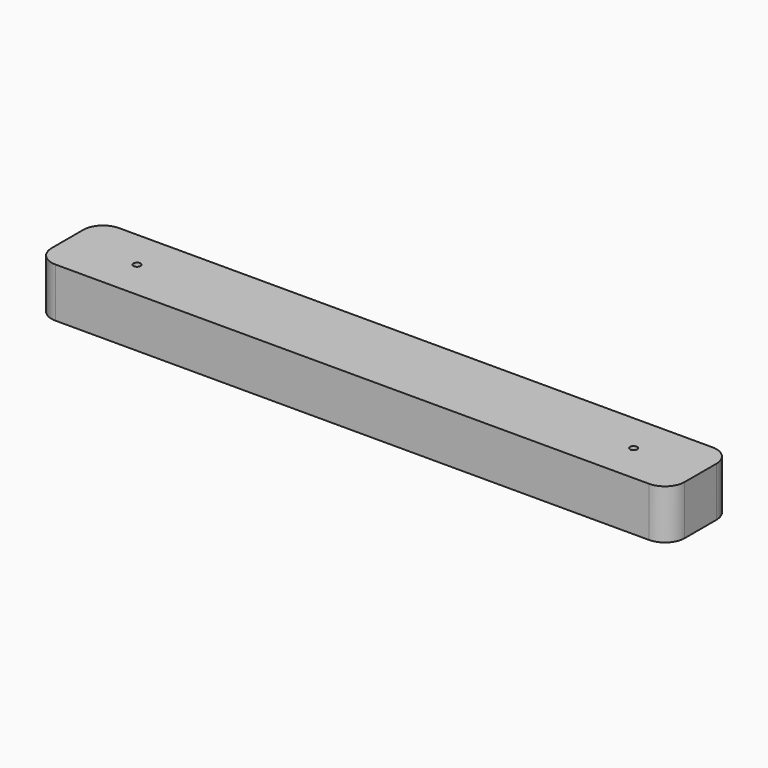
from build123d import *

# Parameters (mm, degrees)
F1_DEPTH = 12.5
F2_R     = 1.8
F3_DEPTH = 26
F4_R     = 1.8
F5_DEPTH = 26


with BuildPart() as f1:
    # F0 (on Top) → F1 (new body, symmetric)
    with BuildSketch(Plane.XY):
        with BuildLine():
            ThreePointArc((160, 10), (157.071068, 17.071068), (150, 20))
            Line((150, 20), (-150, 20))
            ThreePointArc((-150, 20), (-157.071068, 17.071068), (-160, 10))
            Line((-160, 10), (-160, -10))
            ThreePointArc((-160, -10), (-157.071068, -17.071068), (-150, -20))
            Line((-150, -20), (150, -20))
            ThreePointArc((150, -20), (157.071068, -17.071068), (160, -10))
            Line((160, -10), (160, 10))
        make_face()
    extrude(amount=F1_DEPTH, both=True)

    # F2 (on face) → F3 (cut)
    with BuildSketch(Plane.XY.offset(12.5)):
        with Locations((-124.811478, 0)):
            Circle(F2_R)
    extrude(amount=-F3_DEPTH, mode=Mode.SUBTRACT)

    # F4 (on face) → F5 (cut)
    with BuildSketch(Plane.XY.offset(12.5)):
        with Locations((126.15183, 0)):
            Circle(F4_R)
    extrude(amount=-F5_DEPTH, mode=Mode.SUBTRACT)


solid = f1.part
